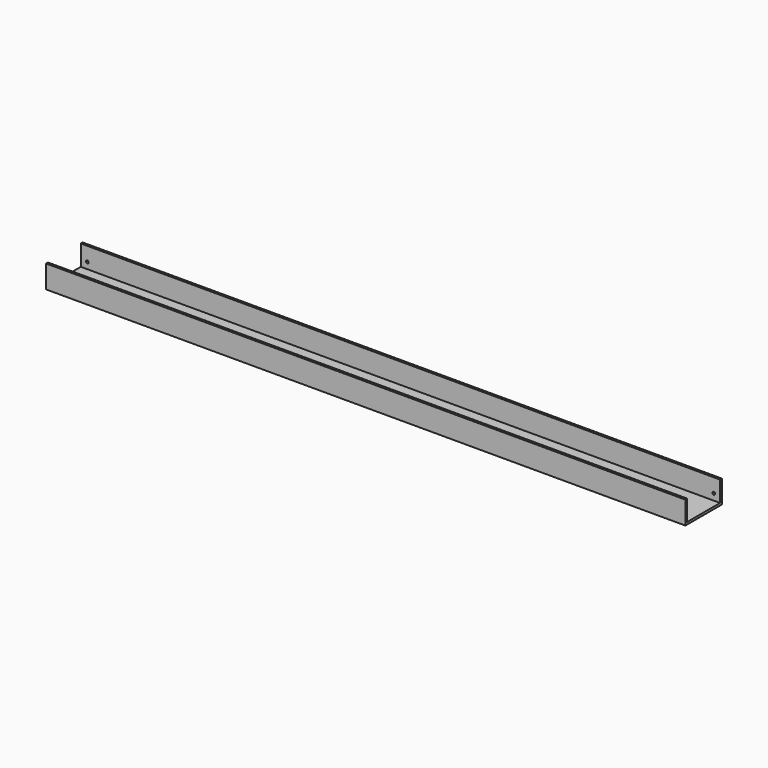
from build123d import *

# Parameters (mm, degrees)
F1_DEPTH      = 350
F1_DEPTH_BACK = 350
F3_D          = 3
F3_DEPTH      = 10


with BuildPart() as f1:
    # F0 (on Right) → F1 (new body, two sides)
    with BuildSketch(Plane.YZ) as f1_sk:
        Polygon((-25, 0), (25, 0), (25, 25), (22.5, 25), (22.5, 2.5), (-22.5, 2.5), (-22.5, 25), (-25, 25), align=None)
    extrude(amount=F1_DEPTH)
    extrude(f1_sk.sketch, amount=-F1_DEPTH_BACK)

    # F3
    with Locations(Plane.XZ.offset(-22.5)):
        with Locations((-343, 9.5), (343, 9.5)):
            Hole(F3_D / 2, depth=F3_DEPTH)


solid = f1.part
